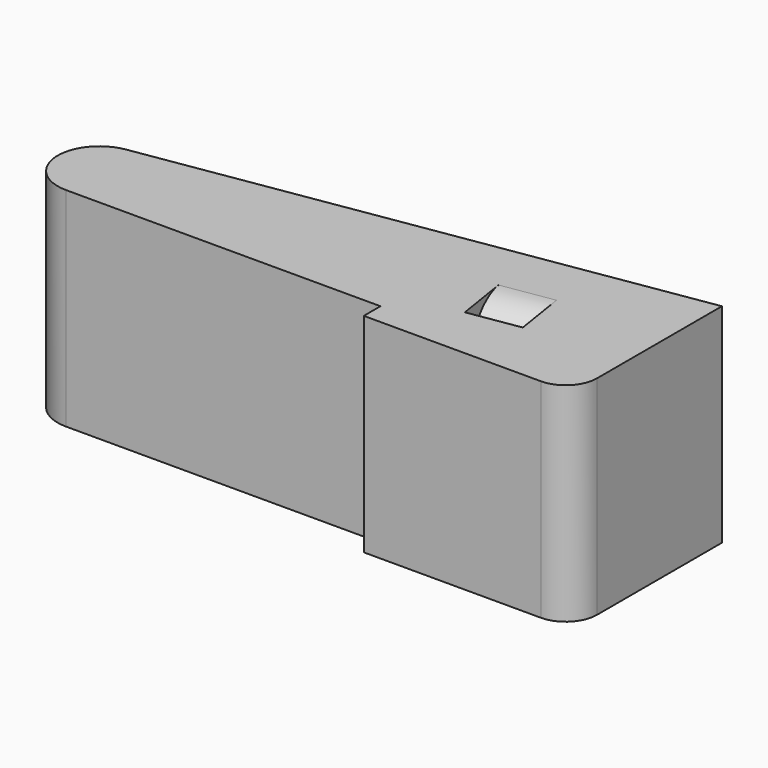
from build123d import *

# Parameters (mm, degrees)
F1_DEPTH = 25.4
F2_R     = 3.81
F5_W     = 6.35
F5_H     = 2.54
F7_R     = 5.08
F8_R     = 5.08


with BuildPart() as f1:
    # F0 (on Top) → F1 (new body)
    with BuildSketch(Plane.XY):
        Polygon((104.9045048051, 0), (104.9045048051, 2.54), (104.9045048051, 22.86), (-23.3909259731, 2.54), (79.5045048051, 2.54), (79.5045048051, 0), align=None)
    extrude(amount=F1_DEPTH)

    # F2
    f2_edges = [f1.edges().sort_by_distance(p)[0] for p in [
        (104.904505, 0, 12.7),
    ]]
    fillet(f2_edges, radius=F2_R)

    # F5 (on offset) → F6 (revolve, cut)
    with BuildSketch(Plane(origin=(-4.938303697, 31.1792224467, 0), x_dir=(-0.9876883406, -0.156434465, 0), z_dir=(-0.156434465, 0.9876883406, 0))):
        with Locations((-89.706552875, 52.07)):
            Rectangle(F5_W, F5_H)
    revolve(axis=Axis((58.4876587146, 41.2249080053, 12.7), (-0.9876883406, -0.156434465, 0)), mode=Mode.SUBTRACT)

    # F7
    f7_edges = [f1.edges().sort_by_distance(p)[0] for p in [
        (89.283099, 9.733642, 25.4),
        (89.283099, 9.733642, 0),
    ]]
    fillet(f7_edges, radius=F7_R)

    # F8
    f8_edges = [f1.edges().sort_by_distance(p)[0] for p in [
        (-23.390926, 2.54, 12.7),
    ]]
    fillet(f8_edges, radius=F8_R)


solid = f1.part
